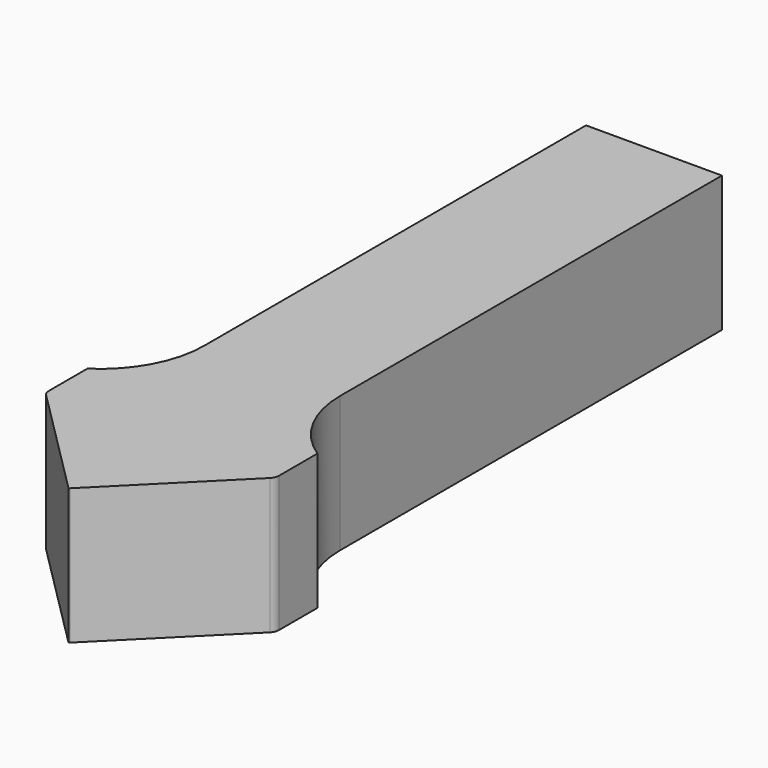
from build123d import *

# Parameters (mm, degrees)
F1_DEPTH = 13
F2_R     = 0.1
F3_R     = 1


with BuildPart() as f1:
    # F0 (on Top) → F1 (new body)
    with BuildSketch(Plane.XY):
        with BuildLine():
            Line((6.5, 24.351647), (6.5, 70))
            Line((6.5, 70), (0, 70))
            Line((0, 70), (-6.5, 70))
            Line((-6.5, 70), (-6.5, 24.351647))
            ThreePointArc((-6.5, 24.351647), (-7.696592, 19.60823), (-11, 16))
            Line((-11, 16), (-11, 11))
            Line((-11, 11), (0, 0))
            Line((0, 0), (11, 11))
            Line((11, 11), (11, 16))
            ThreePointArc((11, 16), (7.696592, 19.60823), (6.5, 24.351647))
        make_face()
    extrude(amount=F1_DEPTH)

    # F2
    f2_edges = [f1.edges().sort_by_distance(p)[0] for p in [
        (0, 0, 6.5),
    ]]
    fillet(f2_edges, radius=F2_R)

    # F3
    f3_edges = [f1.edges().sort_by_distance(p)[0] for p in [
        (-11, 11, 6.5),
        (11, 11, 6.5),
    ]]
    fillet(f3_edges, radius=F3_R)


solid = f1.part
